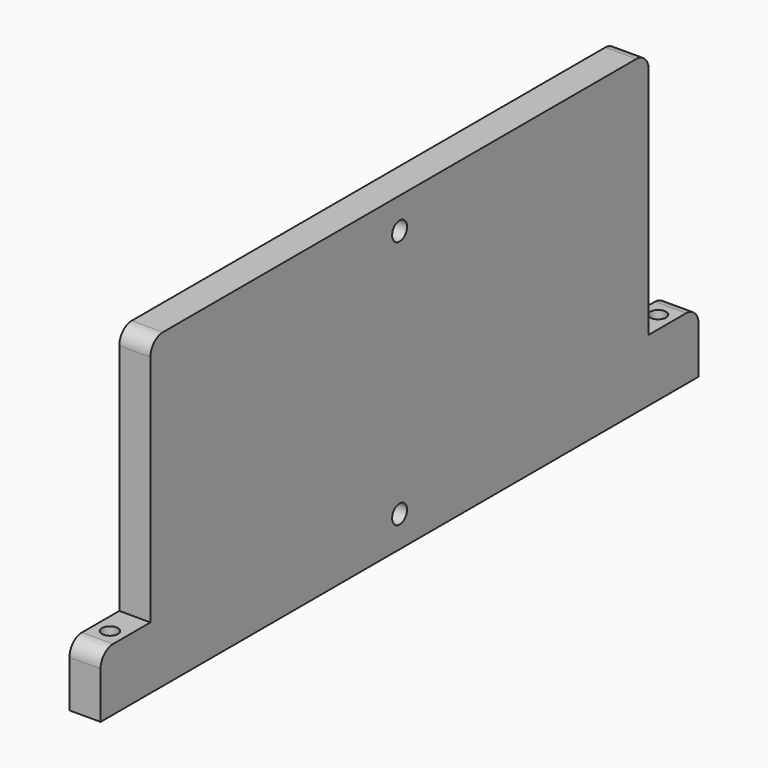
from build123d import *

# Parameters (mm, degrees)
F1_DEPTH = 6.35
F3_D     = 3.7973
F5_D     = 3.2639


with BuildPart() as f1:
    # F0 (on Right) → F1 (new body)
    with BuildSketch(Plane.YZ):
        with BuildLine():
            Line((0, 9.525), (0, 0))
            Line((0, 0), (152.4, 0))
            Line((152.4, 0), (152.4, 9.525))
            ThreePointArc((152.4, 9.525), (151.4700640303, 11.7700640303), (149.225, 12.7))
            Line((149.225, 12.7), (139.7, 12.7))
            Line((139.7, 12.7), (139.7, 60.325))
            ThreePointArc((139.7, 60.325), (138.7700640303, 62.5700640303), (136.525, 63.5))
            Line((136.525, 63.5), (15.875, 63.5))
            ThreePointArc((15.875, 63.5), (13.6299359697, 62.5700640303), (12.7, 60.325))
            Line((12.7, 60.325), (12.7, 12.7))
            Line((12.7, 12.7), (3.175, 12.7))
            ThreePointArc((3.175, 12.7), (0.9299359697, 11.7700640303), (0, 9.525))
        make_face()
    extrude(amount=F1_DEPTH)

    # F3 (through all)
    with Locations(Plane.YZ.offset(6.35)):
        with Locations((76.2, 57.15), (76.2, 6.35)):
            Hole(F3_D / 2)

    # F5 (through all)
    with Locations(Plane.XY.offset(12.7)):
        with Locations((3.175, 6.35), (3.175, 146.05)):
            Hole(F5_D / 2)


solid = f1.part
